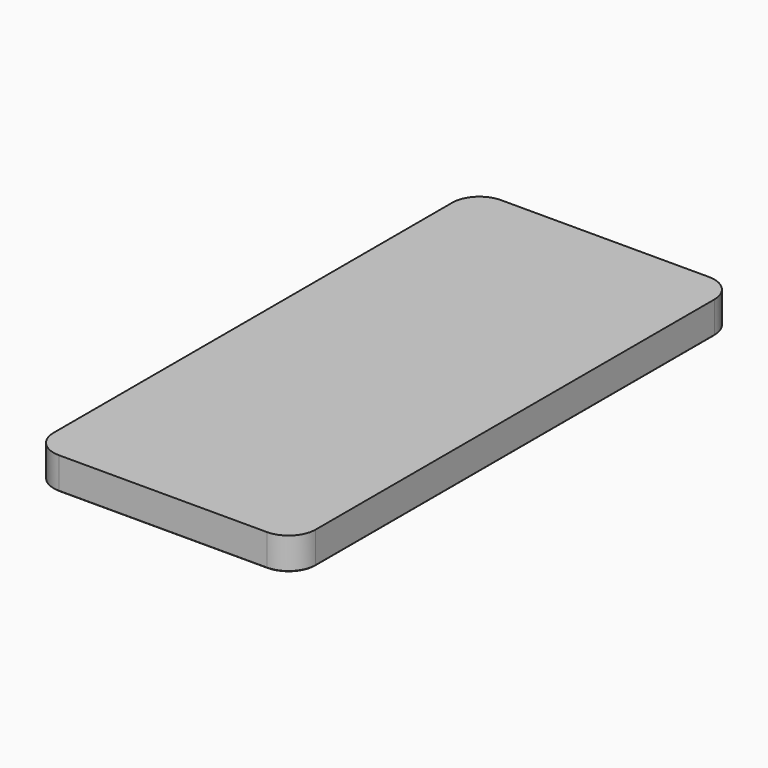
from build123d import *

# Parameters (mm, degrees)
F1_DEPTH = 7.13
F2_SIZE  = 0.14


with BuildPart() as f1:
    # F0 (on Top) → F1 (new body)
    with BuildSketch(Plane.XY):
        with BuildLine():
            Line((-52.604, 0), (-6.07, 0))
            ThreePointArc((-6.07, 0), (-1.777862, 1.777862), (0, 6.07))
            Line((0, 6.07), (0, 117.628))
            ThreePointArc((0, 117.628), (-1.777862, 121.920138), (-6.07, 123.698))
            Line((-6.07, 123.698), (-52.604, 123.698))
            ThreePointArc((-52.604, 123.698), (-56.896138, 121.920138), (-58.674, 117.628))
            Line((-58.674, 117.628), (-58.674, 6.07))
            ThreePointArc((-58.674, 6.07), (-56.896138, 1.777862), (-52.604, 0))
        make_face()
    extrude(amount=F1_DEPTH)

    # F2
    f2_edges = [f1.edges().sort_by_distance(p)[0] for p in [
        (-58.674, 61.849, 0),
        (-56.896138, 1.777862, 0),
        (-29.337, 0, 0),
        (0, 61.849, 0),
        (-1.777862, 121.920138, 0),
        (-29.337, 123.698, 0),
        (-56.896138, 121.920138, 0),
        (-1.777862, 1.777862, 0),
    ]]
    chamfer(f2_edges, length=F2_SIZE)


solid = f1.part
